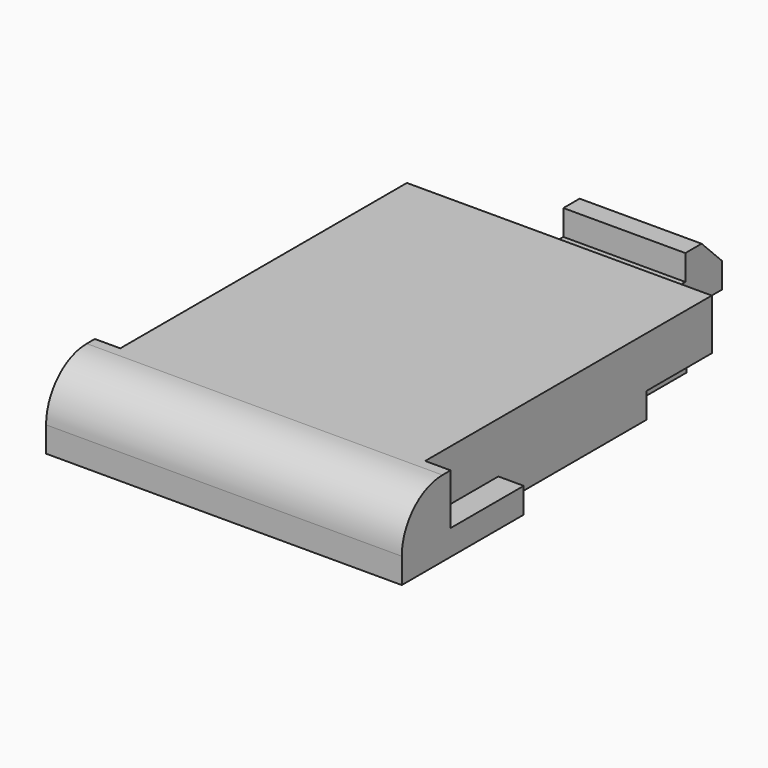
from build123d import *

# Parameters (mm, degrees)
F0_W     = 12
F0_H     = 1
F0_H_2   = 2
F1_DEPTH = 16.5
F0_W_2   = 1
F2_DEPTH = 2.4
F3_DEPTH = 6
F4_R     = 2
F5_W     = 1
F5_H     = 1
F6_DEPTH = 3.2
F5_W_2   = 4.8
F7_DEPTH = 5
F8_W     = 4.8
F8_H     = 1.8
F9_DEPTH = 1
F10_SIZE = 1


with BuildPart() as f1:
    # F0 (on Front) → F1 (new body)
    with BuildSketch(Plane.XZ):
        with Locations((0, 0.5)):
            Rectangle(F0_W, F0_H)
        with Locations((0, 2)):
            Rectangle(F0_W, F0_H_2)
    extrude(amount=-F1_DEPTH)

    # F0 (on Front) → F2 (join)
    with BuildSketch(Plane.XZ):
        with Locations((-6.5, 2)):
            Rectangle(F0_W_2, F0_H_2)
        with Locations((6.5, 2)):
            Rectangle(F0_W_2, F0_H_2)
    extrude(amount=-F2_DEPTH)

    # F0 (on Front) → F3 (join)
    with BuildSketch(Plane.XZ):
        with Locations((6.5, 0.5)):
            Rectangle(F0_W_2, F0_H)
        with Locations((-6.5, 0.5)):
            Rectangle(F0_W_2, F0_H)
    extrude(amount=-F3_DEPTH)

    # F4
    f4_edges = [f1.edges().sort_by_distance(p)[0] for p in [
        (0, 0, 3),
    ]]
    fillet(f4_edges, radius=F4_R)

    # F5 (on face) → F6 (cut)
    with BuildSketch(Plane(origin=(0, 16.5, 0), x_dir=(-1, 0, 0), z_dir=(0, 1, 0))):
        with Locations((5.5, 0.5)):
            Rectangle(F5_W, F5_H)
        with Locations((-5.5, 0.5)):
            Rectangle(F5_W, F5_H)
    extrude(amount=-F6_DEPTH, mode=Mode.SUBTRACT)

    # F5 (on face) → F7 (join)
    with BuildSketch(Plane(origin=(0, 16.5, 0), x_dir=(-1, 0, 0), z_dir=(0, 1, 0))):
        with Locations((0, 0.5)):
            Rectangle(F5_W_2, F5_H)
    extrude(amount=F7_DEPTH)

    # F8 (on face) → F9 (join)
    with BuildSketch(Plane.XY.offset(1)):
        with Locations((0, 20.6)):
            Rectangle(F8_W, F8_H)
    extrude(amount=F9_DEPTH)

    # F10
    f10_edges = [f1.edges().sort_by_distance(p)[0] for p in [
        (0, 21.5, 2),
    ]]
    chamfer(f10_edges, length=F10_SIZE)


solid = f1.part
